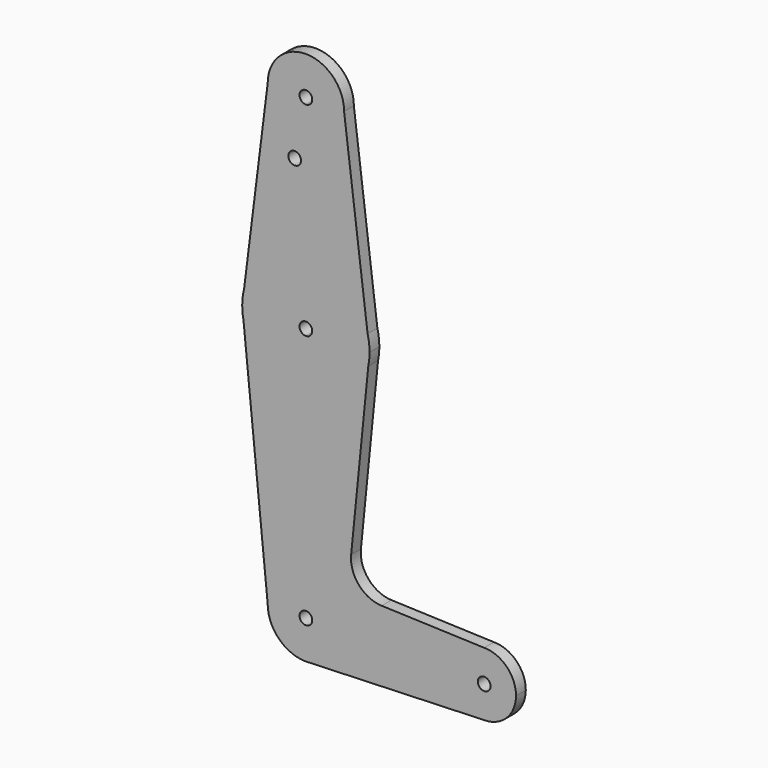
from build123d import *

# Parameters (mm, degrees)
F0_R     = 1.5875
F1_DEPTH = 3.048


with BuildPart() as f1:
    # F0 (on Front) → F1 (new body)
    with BuildSketch(Plane.XZ):
        with BuildLine():
            Line((0.6794904459, -9.5007324841), (0, -9.525))
            ThreePointArc((0, -9.525), (0.3399618281, -9.5189311877), (0.6794904459, -9.5007324841))
        make_face()
        with BuildLine():
            Line((15.3865384615, 67.4076923077), (15.875, 63.5))
            ThreePointArc((15.875, 63.5), (15.7524112928, 65.4690514116), (15.3865384615, 67.4076923077))
        make_face()
        with BuildLine():
            ThreePointArc((-15.3865384615, 67.4076923077), (-15.7524112928, 65.4690514116), (-15.875, 63.5))
            Line((-15.875, 63.5), (-15.3865384615, 67.4076923077))
        make_face()
        with BuildLine():
            ThreePointArc((-15.875, 63.5), (-15.7962153946, 61.9203784605), (-15.5606435644, 60.3564356436))
            Line((-15.5606435644, 60.3564356436), (-15.875, 63.5))
        make_face()
        with BuildLine():
            Line((15.875, 63.5), (15.5606435644, 60.3564356436))
            ThreePointArc((15.5606435644, 60.3564356436), (15.7962153946, 61.9203784605), (15.875, 63.5))
        make_face()
        with BuildLine():
            Line((-15.5606435644, 60.3564356436), (-9.525, 0))
            ThreePointArc((-9.525, 0), (-6.7351920908, 6.7351920908), (0, 9.525))
            Line((0, 9.525), (0, 47.625))
            ThreePointArc((0, 47.625), (-10.0526499203, 51.2134278751), (-15.5606435644, 60.3564356436))
        make_face()
        with BuildLine():
            ThreePointArc((9.525, 0), (6.9712901065, -6.4905114784), (0.6794904459, -9.5007324841))
            Line((0.6794904459, -9.5007324841), (44.45, -7.9375))
            ThreePointArc((44.45, -7.9375), (38.8373399243, -5.6126600757), (36.5125, 0))
            Line((36.5125, 0), (9.525, 0))
        make_face()
        with BuildLine():
            ThreePointArc((9.525, 114.3), (0, 123.825), (-9.525, 114.3))
            ThreePointArc((-9.525, 114.3), (-6.7351920908, 107.5648079092), (0, 104.775))
            ThreePointArc((0, 104.775), (6.7351920908, 107.5648079092), (9.525, 114.3))
        make_face()
        with BuildLine():
            ThreePointArc((1.5875, 114.3), (1.1225320151, 113.1774679849), (0, 112.7125))
            ThreePointArc((0, 112.7125), (-1.1225320151, 115.4225320151), (1.5875, 114.3))
        make_face(mode=Mode.SUBTRACT)
        with BuildLine():
            ThreePointArc((36.5125, 0), (38.8373399243, -5.6126600757), (44.45, -7.9375))
            ThreePointArc((44.45, -7.9375), (50.0626600757, -5.6126600757), (52.3875, 0))
            ThreePointArc((52.3875, 0), (50.0626600757, 5.6126600757), (44.45, 7.9375))
            ThreePointArc((44.45, 7.9375), (38.8373399243, 5.6126600757), (36.5125, 0))
        make_face()
        with BuildLine():
            ThreePointArc((46.0375, 0), (44.45, -1.5875), (42.8625, 0))
            ThreePointArc((42.8625, 0), (44.45, 1.5875), (46.0375, 0))
        make_face(mode=Mode.SUBTRACT)
        with BuildLine():
            Line((0, 47.625), (0, 9.525))
            ThreePointArc((0, 9.525), (6.7351920908, 6.7351920908), (9.525, 0))
            Line((9.525, 0), (36.5125, 0))
            ThreePointArc((36.5125, 0), (38.8373399243, 5.6126600757), (44.45, 7.9375))
            Line((44.45, 7.9375), (18.9098309362, 8.8531650928))
            ThreePointArc((18.9098309362, 8.8531650928), (13.2053461582, 11.5701077328), (11.2839335034, 17.5893350338))
            Line((11.2839335034, 17.5893350338), (15.5606435644, 60.3564356436))
            ThreePointArc((15.5606435644, 60.3564356436), (10.0526499203, 51.2134278751), (0, 47.625))
        make_face()
        with BuildLine():
            ThreePointArc((0, 9.525), (-6.7351920908, 6.7351920908), (-9.525, 0))
            ThreePointArc((-9.525, 0), (-6.7351920908, -6.7351920908), (0, -9.525))
            Line((0, -9.525), (0.6794904459, -9.5007324841))
            ThreePointArc((0.6794904459, -9.5007324841), (6.9712901065, -6.4905114784), (9.525, 0))
            Line((9.525, 0), (1.5875, 0))
            ThreePointArc((1.5875, 0), (-1.1225320151, -1.1225320151), (0, 1.5875))
            Line((0, 1.5875), (0, 9.525))
        make_face()
        with BuildLine():
            Line((0, 61.9125), (0, 47.625))
            ThreePointArc((0, 47.625), (10.0526499203, 51.2134278751), (15.5606435644, 60.3564356436))
            Line((15.5606435644, 60.3564356436), (15.875, 63.5))
            Line((15.875, 63.5), (15.3865384615, 67.4076923077))
            ThreePointArc((15.3865384615, 67.4076923077), (9.7463072395, 76.0309664508), (0, 79.375))
            Line((0, 79.375), (0, 65.0875))
            ThreePointArc((0, 65.0875), (1.1225320151, 64.6225320151), (1.5875, 63.5))
            ThreePointArc((1.5875, 63.5), (1.1225320151, 62.3774679849), (0, 61.9125))
        make_face()
        with BuildLine():
            Line((-15.875, 63.5), (-15.5606435644, 60.3564356436))
            ThreePointArc((-15.5606435644, 60.3564356436), (-10.0526499203, 51.2134278751), (0, 47.625))
            Line((0, 47.625), (0, 61.9125))
            ThreePointArc((0, 61.9125), (-1.5875, 63.5), (0, 65.0875))
            Line((0, 65.0875), (0, 79.375))
            ThreePointArc((0, 79.375), (-9.7463072395, 76.0309664508), (-15.3865384615, 67.4076923077))
            Line((-15.3865384615, 67.4076923077), (-15.875, 63.5))
        make_face()
        with BuildLine():
            Line((-9.525, 114.3), (-15.3865384615, 67.4076923077))
            ThreePointArc((-15.3865384615, 67.4076923077), (-9.7463072395, 76.0309664508), (0, 79.375))
            Line((0, 79.375), (0, 104.775))
            ThreePointArc((0, 104.775), (-6.7351920908, 107.5648079092), (-9.525, 114.3))
        make_face()
        with Locations((-2.7940001845, 100.0251993537)):
            Circle(F0_R, mode=Mode.SUBTRACT)
        with BuildLine():
            Line((0, 104.775), (0, 79.375))
            ThreePointArc((0, 79.375), (9.7463072395, 76.0309664508), (15.3865384615, 67.4076923077))
            Line((15.3865384615, 67.4076923077), (9.525, 114.3))
            ThreePointArc((9.525, 114.3), (6.7351920908, 107.5648079092), (0, 104.775))
        make_face()
        with BuildLine():
            ThreePointArc((9.525, 0), (6.7351920908, 6.7351920908), (0, 9.525))
            Line((0, 9.525), (0, 1.5875))
            ThreePointArc((0, 1.5875), (1.1225320151, 1.1225320151), (1.5875, 0))
            Line((1.5875, 0), (9.525, 0))
        make_face()
    extrude(amount=F1_DEPTH)


solid = f1.part
